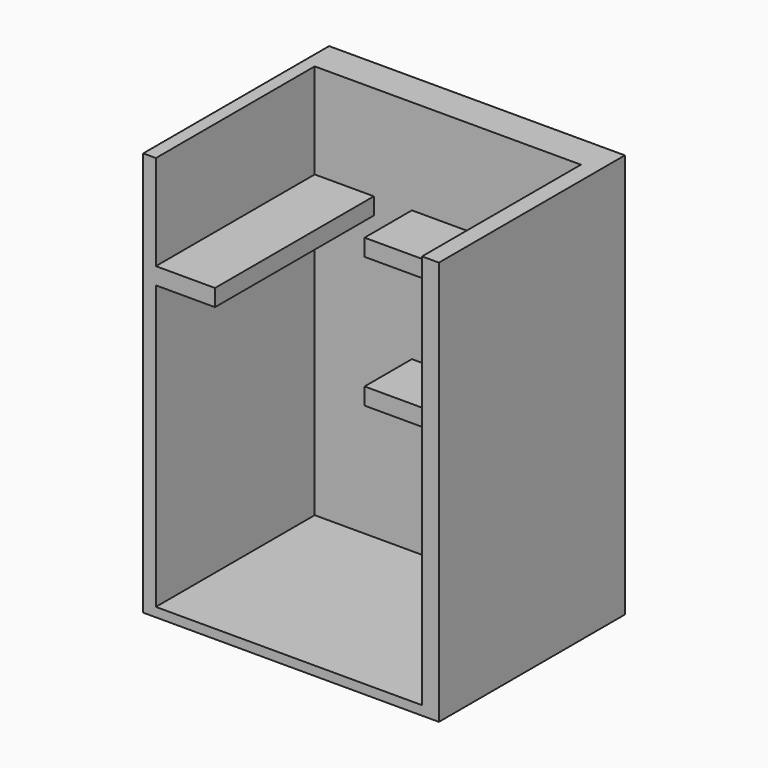
from build123d import *

# Parameters (mm, degrees)
F0_W      = 1778
F0_H      = 1397
F1_DEPTH  = 2976.48255
F2_W      = 1600.2
F2_H      = 2921
F3_DEPTH  = 1193.8
F4_W      = 1016
F4_H      = 355.6
F5_DEPTH  = 1016
F6_W      = 1016
F6_H      = 914.4
F7_DEPTH  = 355.6
F8_W      = 1193.8
F8_H      = 101.6
F9_DEPTH  = 355.6
F10_W     = 1016
F10_H     = 101.6
F11_DEPTH = 355.6
F12_W     = 1397
F12_H     = 545.586983
F13_DEPTH = 2540


with BuildPart() as f1:
    # F0 (on Top) → F1 (new body)
    with BuildSketch(Plane.XY):
        with Locations((89.574512, -91.872729)):
            Rectangle(F0_W, F0_H)
    extrude(amount=F1_DEPTH)

    # F2 (on face) → F3 (cut)
    with BuildSketch(Plane.XZ.offset(790.372729)):
        with Locations((76.874512, 1515.98255)):
            Rectangle(F2_W, F2_H)
    extrude(amount=-F3_DEPTH, mode=Mode.SUBTRACT)

    # F4 (on face) → F5 (join)
    with BuildSketch(Plane.XY.offset(55.48255)):
        with Locations((368.974512, 225.627271)):
            Rectangle(F4_W, F4_H)
    extrude(amount=F5_DEPTH)

    # F6 (on face) → F7 (cut)
    with BuildSketch(Plane.XZ.offset(-47.827271)):
        with Locations((368.974512, 512.68255)):
            Rectangle(F6_W, F6_H)
    extrude(amount=-F7_DEPTH, mode=Mode.SUBTRACT)

    # F8 (on face) → F9 (join)
    with BuildSketch(Plane.YZ.offset(-723.225488)):
        with Locations((-193.472729, 1808.08255)):
            Rectangle(F8_W, F8_H)
    extrude(amount=F9_DEPTH)

    # F10 (on face) → F11 (join)
    with BuildSketch(Plane.XZ.offset(-403.427271)):
        with Locations((368.974512, 1808.08255)):
            Rectangle(F10_W, F10_H)
    extrude(amount=F11_DEPTH)

    # F12 (on face) → F13 (cut)
    with BuildSketch(Plane.YZ.offset(978.574512)):
        with Locations((-91.872729, 2703.689059)):
            Rectangle(F12_W, F12_H)
    extrude(amount=-F13_DEPTH, mode=Mode.SUBTRACT)


solid = f1.part
